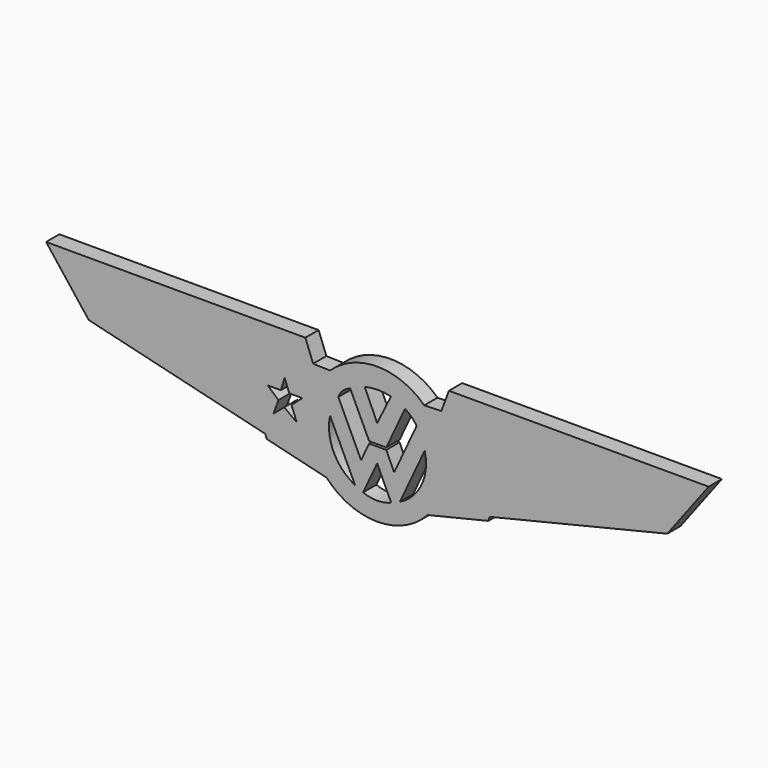
from build123d import *

# Parameters (mm, degrees)
F1_DEPTH = 2.54


with BuildPart() as f1:
    # F0 (on Front) → F1 (new body)
    with BuildSketch(Plane.XZ):
        with BuildLine():
            ThreePointArc((7.738306, -7.057663), (9.765713, -3.784552), (10.473394, 0))
            ThreePointArc((10.473394, 0), (9.627005, 4.124653), (7.224635, 7.582653))
            ThreePointArc((7.224635, 7.582653), (0, 10.473394), (-7.224635, 7.582653))
            ThreePointArc((-7.224635, 7.582653), (-10.466954, 0.367244), (-7.738306, -7.057663))
            ThreePointArc((-7.738306, -7.057663), (0, -10.473394), (7.738306, -7.057663))
        make_face()
        with BuildLine():
            Line((-2.152094, -7.214504), (0, -2.595979))
            Line((0, -2.595979), (2.144959, -7.214504))
            ThreePointArc((2.144959, -7.214504), (-0.003567, -7.636494), (-2.152094, -7.214504))
        make_face(mode=Mode.SUBTRACT)
        with BuildLine():
            ThreePointArc((-3.384339, -6.653862), (-6.683961, -3.233143), (-7.223777, 1.488871))
            Line((-7.223777, 1.488871), (-3.384339, -6.653862))
        make_face(mode=Mode.SUBTRACT)
        with BuildLine():
            Line((3.492318, -6.653862), (7.286586, 1.488871))
            ThreePointArc((7.286586, 1.488871), (6.822869, -3.250425), (3.492318, -6.653862))
        make_face(mode=Mode.SUBTRACT)
        with BuildLine():
            ThreePointArc((-5.957007, 4.418221), (-5.252536, 5.505791), (-4.134786, 6.161323))
            Line((-4.134786, 6.161323), (-1.229617, 0))
            Line((-1.229617, 0), (1.402125, 0))
            Line((1.402125, 0), (4.273116, 6.161323))
            ThreePointArc((4.273116, 6.161323), (5.263901, 5.39392), (6.050396, 4.418221))
            Line((6.050396, 4.418221), (2.601226, -2.98391))
            Line((2.601226, -2.98391), (1.402125, -0.328891))
            Line((1.402125, -0.328891), (-1.229617, -0.328891))
            Line((-1.229617, -0.328891), (-2.466776, -2.98391))
            Line((-2.466776, -2.98391), (-5.957007, 4.418221))
        make_face(mode=Mode.SUBTRACT)
        with BuildLine():
            Line((0, 2.846012), (-1.913186, 7.11832))
            ThreePointArc((-1.913186, 7.11832), (0.103343, 7.357841), (2.119873, 7.11832))
            Line((2.119873, 7.11832), (0, 2.846012))
        make_face(mode=Mode.SUBTRACT)
        with BuildLine():
            ThreePointArc((7.224635, 7.582653), (9.627005, 4.124653), (10.473394, 0))
            ThreePointArc((10.473394, 0), (9.765713, -3.784552), (7.738306, -7.057663))
            Line((7.738306, -7.057663), (17.044773, -4.823679))
            Line((17.044773, -4.823679), (17.261992, -4.200394))
            Line((17.261992, -4.200394), (21.515753, 8.005273))
            Line((21.515753, 8.005273), (9.83273, 7.65978))
            Line((9.83273, 7.65978), (7.224635, 7.582653))
        make_face()
        with BuildLine():
            ThreePointArc((-7.738306, -7.057663), (-10.466954, 0.367244), (-7.224635, 7.582653))
            Line((-7.224635, 7.582653), (-9.815511, 7.65978))
            Line((-9.815511, 7.65978), (-21.421401, 8.005273))
            Line((-21.421401, 8.005273), (-17.155705, -4.200394))
            Line((-17.155705, -4.200394), (-16.937877, -4.823679))
            Line((-16.937877, -4.823679), (-7.738306, -7.057663))
        make_face()
        Polygon((-14.769453, 2.473412), (-14.185613, 4.333009), (-13.477944, 2.473412), (-11.474869, 2.473412), (-13.129719, 1.022873), (-12.338734, -1.062449), (-14.252342, 0.338954), (-15.897308, -1.062449), (-15.132699, 1.022873), (-16.792862, 2.473412), align=None, mode=Mode.SUBTRACT)
        Polygon((11.004867, 10.780503), (9.83273, 7.65978), (21.515753, 8.005273), (17.261992, -4.200394), (44.487608, 2.368847), (50.83166, 10.780503), align=None)
        Polygon((-21.421401, 8.005273), (-9.815511, 7.65978), (-11.012142, 10.780503), (-50.76834, 10.780503), (-44.232576, 2.368847), (-17.155705, -4.200394), align=None)
    extrude(amount=F1_DEPTH)


solid = f1.part
